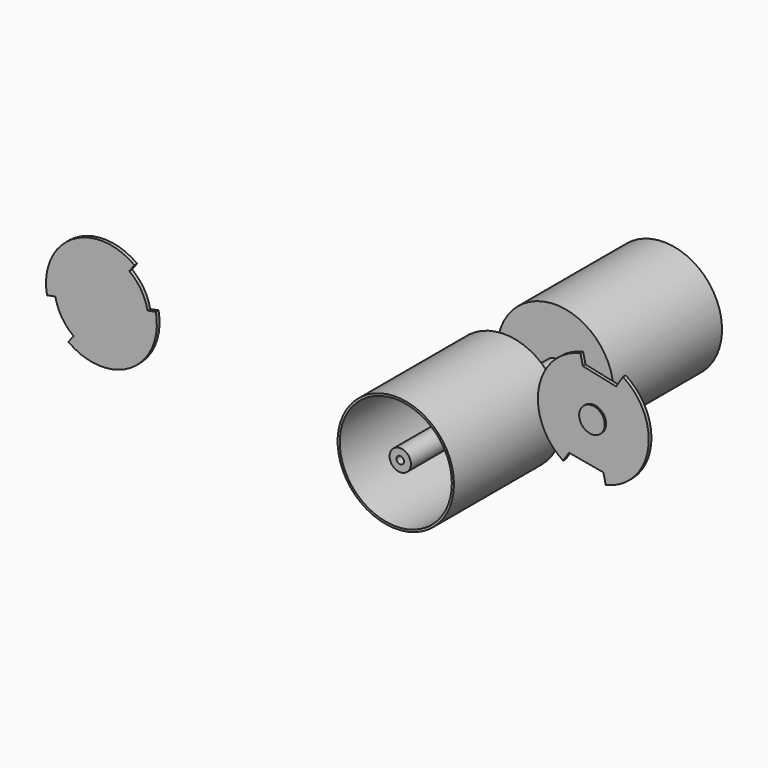
from build123d import *

# Parameters (mm, degrees)
F0_R      = 25
F1_DEPTH  = 75
F2_R      = 136.5
F3_DEPTH  = 8
F4_R      = 136.5
F4_R_2    = 131.5
F5_DEPTH  = 310
F6_DEPTH  = 380
F7_DEPTH  = 75
F8_R      = 136.5
F9_DEPTH  = 8
F10_R     = 136.5
F10_R_2   = 131.5
F11_DEPTH = 310
F12_DEPTH = 380
F13_R     = 8.75
F14_DEPTH = 40
F15_R     = 8.75
F16_DEPTH = 40
F17_R     = 130
F17_R_2   = 10
F18_DEPTH = 8
F20_DEPTH = 25
F21_R     = 10
F22_DEPTH = 30
F23_R     = 130
F23_R_2   = 25
F24_DEPTH = 8
F25_R     = 30
F26_DEPTH = 4
F27_R     = 10
F28_DEPTH = 30
F30_DEPTH = 25


with BuildPart() as f1:
    # F0 (on Front) → F1 (new body)
    with BuildSketch(Plane.XZ):
        Circle(F0_R)
    extrude(amount=F1_DEPTH)

    # F0 (on Front) → F6 (join)
    with BuildSketch(Plane.XZ):
        Circle(F0_R)
    extrude(amount=F6_DEPTH)



with BuildPart() as f3:
    # F2 (on face) → F3 (new body)
    with BuildSketch(Plane(origin=(0, 75, 0), x_dir=(-1, 0, 0), z_dir=(0, 1, 0))):
        Circle(F2_R)
    extrude(amount=F3_DEPTH)


with BuildPart() as f5:
    # F4 (on face) → F5 (new body)
    with BuildSketch(Plane.XZ.offset(83)):
        Circle(F4_R)
        Circle(F4_R_2, mode=Mode.SUBTRACT)
    extrude(amount=F5_DEPTH)


with BuildPart() as f1_1:
    add(f1.part)

    add(f3.part)  # F7 merges F3
    # F0 (on Front) → F7 (join)
    with BuildSketch(Plane.XZ):
        Circle(F0_R)
    extrude(amount=-F7_DEPTH)


    add(f5.part)  # F9 merges F5
    # F8 (on face) → F9 (join)
    with BuildSketch(Plane.XZ.offset(75)):
        Circle(F8_R)
    extrude(amount=F9_DEPTH)

    # F10 (on face) → F11 (join)
    with BuildSketch(Plane(origin=(0, 83, 0), x_dir=(-1, 0, 0), z_dir=(0, 1, 0))):
        Circle(F10_R)
        Circle(F10_R_2, mode=Mode.SUBTRACT)
    extrude(amount=F11_DEPTH)

    # F0 (on Front) → F12 (join)
    with BuildSketch(Plane.XZ):
        Circle(F0_R)
    extrude(amount=-F12_DEPTH)

    # F13 (on face) → F14 (cut)
    with BuildSketch(Plane.XZ.offset(380)):
        Circle(F13_R)
    extrude(amount=-F14_DEPTH, mode=Mode.SUBTRACT)

    # F15 (on face) → F16 (cut)
    with BuildSketch(Plane(origin=(0, 380, 0), x_dir=(-1, 0, 0), z_dir=(0, 1, 0))):
        Circle(F15_R)
    extrude(amount=-F16_DEPTH, mode=Mode.SUBTRACT)


with BuildPart() as f18:
    # F17 (on face) → F18 (new body)
    with BuildSketch(Plane.XZ.offset(380)):
        with Locations((-694.544673, 100.796528)):
            Circle(F17_R)
        with Locations((-694.544673, 100.796528)):
            Circle(F17_R_2, mode=Mode.SUBTRACT)
    extrude(amount=F18_DEPTH)

    # F19 (on face) → F20 (cut)
    with BuildSketch(Plane.XZ.offset(388)):
        with BuildLine():
            Line((-617.119133, 205.224904), (-629.030752, 189.158998))
            ThreePointArc((-629.030752, 189.158998), (-601.383963, 159.286546), (-586.492557, 121.405755))
            Line((-586.492557, 121.405755), (-566.846718, 125.152891))
            ThreePointArc((-566.846718, 125.152891), (-584.445654, 169.921098), (-617.119133, 205.224904))
        make_face()
        with BuildLine():
            ThreePointArc((-760.058561, 12.434033), (-787.70536, 42.306475), (-802.596781, 80.18726))
            Line((-802.596781, 80.18726), (-822.24262, 76.440124))
            ThreePointArc((-822.24262, 76.440124), (-804.643669, 31.671923), (-771.97018, -3.631873))
            Line((-771.97018, -3.631873), (-760.058561, 12.434033))
        make_face()
    extrude(amount=-F20_DEPTH, mode=Mode.SUBTRACT)

    # F21 (on face) → F22 (join)
    with BuildSketch(Plane.XZ.offset(388)):
        with Locations((-694.544673, 100.796528)):
            Circle(F21_R)
    extrude(amount=-F22_DEPTH)


with BuildPart() as f24:
    # F23 (on face) → F24 (new body)
    with BuildSketch(Plane.XZ.offset(393)):
        with Locations((463.362545, 240.802914)):
            Circle(F23_R)
        with Locations((463.362545, 240.802914)):
            Circle(F23_R_2, mode=Mode.SUBTRACT)
    extrude(amount=-F24_DEPTH)

    # F25 (on face) → F26 (join)
    with BuildSketch(Plane.XZ.offset(393)):
        with Locations((463.362545, 240.802914)):
            Circle(F25_R)
    extrude(amount=F26_DEPTH)

    # F27 (on face) → F28 (join)
    with BuildSketch(Plane(origin=(0, -393, 0), x_dir=(-1, 0, 0), z_dir=(0, 1, 0))):
        with Locations((-463.362545, 240.802914)):
            Circle(F27_R)
    extrude(amount=F28_DEPTH)

    # F29 (on face) → F30 (cut)
    with BuildSketch(Plane.XZ.offset(393)):
        with BuildLine():
            Line((406.085485, 152.800437), (392.590561, 131.755556))
            ThreePointArc((392.590561, 131.755556), (440.79864, 112.77608), (492.590561, 114.1312))
            Line((492.590561, 114.1312), (486.854449, 138.464244))
            Line((486.854449, 138.464244), (406.085485, 152.800437))
        make_face()
        with BuildLine():
            ThreePointArc((532.935667, 350.619036), (484.617498, 369.053555), (432.935667, 367.192016))
            Line((432.935667, 367.192016), (438.829003, 342.192016))
            Line((438.829003, 342.192016), (516.904543, 325.619036))
            Line((516.904543, 325.619036), (532.935667, 350.619036))
        make_face()
    extrude(amount=-F30_DEPTH, mode=Mode.SUBTRACT)


solid = Compound([f1_1.part, f18.part, f24.part])
